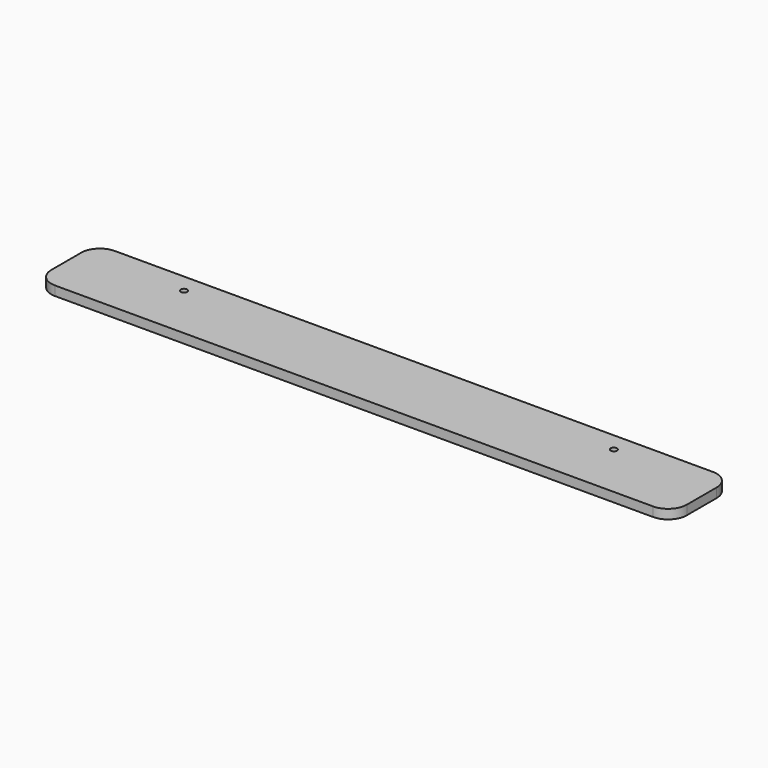
from build123d import *

# Parameters (mm, degrees)
SKETCH_R  = 1.1
PAD_DEPTH = 3.175


with BuildPart() as part:
    # Sketch → Pad (new body)
    with BuildSketch(Plane.XY):
        with BuildLine():
            Line((-101.6, 12.7), (101.6, 12.7))
            ThreePointArc((107.95, 6.35), (106.090128, 10.840128), (101.6, 12.7))
            Line((107.95, 6.35), (107.95, -6.35))
            ThreePointArc((101.6, -12.7), (106.090128, -10.840128), (107.95, -6.35))
            Line((101.6, -12.7), (-101.6, -12.7))
            ThreePointArc((-107.95, -6.35), (-106.090128, -10.840128), (-101.6, -12.7))
            Line((-107.95, -6.35), (-107.95, 6.35))
            ThreePointArc((-101.6, 12.7), (-106.090128, 10.840128), (-107.95, 6.35))
        make_face()
        with Locations((-73.025, 6.35)):
            Circle(SKETCH_R, mode=Mode.SUBTRACT)
        with Locations((73.025, 6.35)):
            Circle(SKETCH_R, mode=Mode.SUBTRACT)
    extrude(amount=PAD_DEPTH)


solid = part.part
